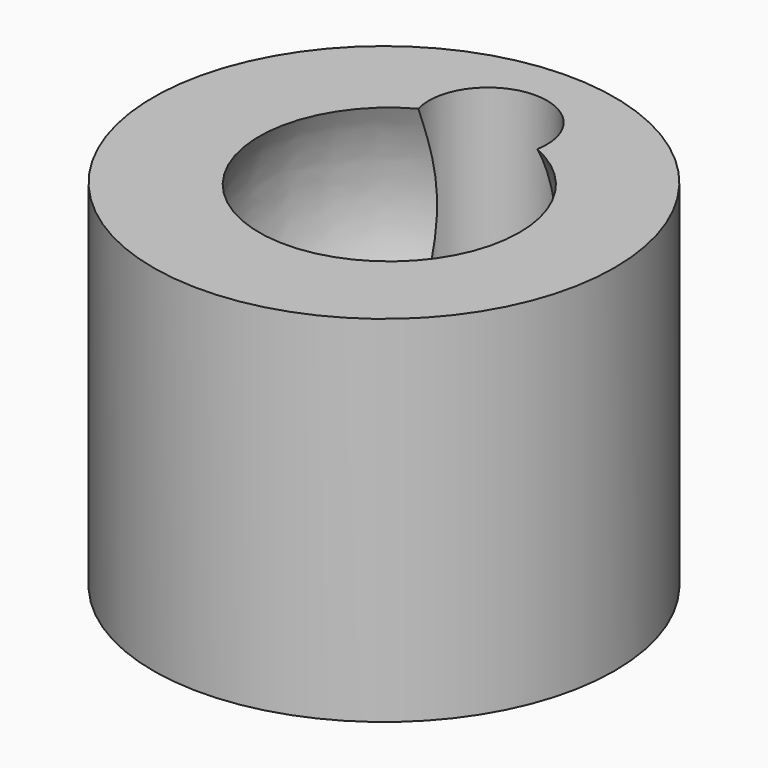
from build123d import *

# Parameters (mm, degrees)
F0_R     = 19.5
F1_DEPTH = 30
F4_R     = 5
F5_DEPTH = 25


with BuildPart() as f1:
    # F0 (on Top) → F1 (new body)
    with BuildSketch(Plane.XY):
        Circle(F0_R)
    extrude(amount=F1_DEPTH)

    # F2 (on Front) → F3 (revolve, cut)
    with BuildSketch(Plane.XZ):
        with BuildLine():
            Line((11.452292, 30), (0.452292, 30))
            Line((0.452292, 30), (0.452292, 5))
            ThreePointArc((0.452292, 5), (11.925941, 14.871595), (11.452292, 30))
        make_face()
    revolve(axis=Axis((0.452292, 0, 17.5), (0, 0, 1)), mode=Mode.SUBTRACT)

    # F4 (on face) → F5 (cut)
    with BuildSketch(Plane.XY.offset(30)):
        with Locations((0, 10.990698)):
            Circle(F4_R)
    extrude(amount=-F5_DEPTH, mode=Mode.SUBTRACT)


solid = f1.part
